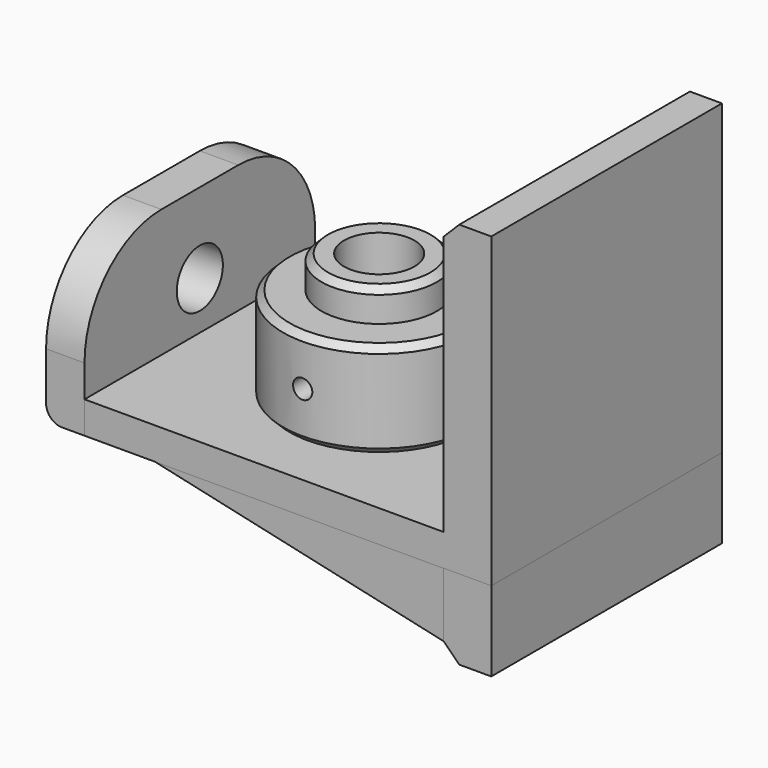
from build123d import *

# Parameters (mm, degrees)
F0_R      = 30
F1_DEPTH  = 30
F2_R      = 18
F3_DEPTH  = 10
F4_SIZE   = 2
F5_R      = 11
F6_DEPTH  = 40
F8_R      = 3
F9_DEPTH  = 12
F11_R     = 3
F12_DEPTH = 12
F15_R     = 3
F16_DEPTH = 12
F17_R     = 3
F18_DEPTH = 12
F20_W     = 90
F20_H     = 50
F21_DEPTH = 12
F22_R     = 9
F23_DEPTH = 12
F25_W     = 112
F25_H     = 90
F26_DEPTH = 10
F27_R     = 25
F28_DEPTH = 2
F29_R     = 11
F30_DEPTH = 8
F31_R     = 30
F32_R     = 30
F35_W     = 15
F35_H     = 90
F36_DEPTH = 25
F34_W     = 90
F34_H     = 96
F37_DEPTH = 15
F38_SIZE  = 5
F39_SIZE  = 5
F40_R     = 5
F44_DEPTH = 15
F46_DEPTH = 15


with BuildPart() as f1:
    # F0 (on Top) → F1 (new body)
    with BuildSketch(Plane.XY):
        Circle(F0_R)
    extrude(amount=F1_DEPTH)

    # F2 (on face) → F3 (join)
    with BuildSketch(Plane.XY.offset(30)):
        Circle(F2_R)
    extrude(amount=F3_DEPTH)

    # F4
    f4_edges = [f1.edges().sort_by_distance(p)[0] for p in [
        (-18, 0, 40),
        (-30, 0, 30),
        (-30, 0, 0),
    ]]
    chamfer(f4_edges, length=F4_SIZE)

    # F5 (on face) → F6 (cut)
    with BuildSketch(Plane.XY.offset(40)):
        Circle(F5_R)
    extrude(amount=-F6_DEPTH, mode=Mode.SUBTRACT)

    # F8 (on offset) → F9 (cut)
    with BuildSketch(Plane.YZ.offset(30)):
        with Locations((0, 15)):
            Circle(F8_R)
    extrude(amount=-F9_DEPTH, mode=Mode.SUBTRACT)

    # F11 (on offset) → F12 (cut)
    with BuildSketch(Plane.YZ.offset(-30)):
        with Locations((0, 15)):
            Circle(F11_R)
    extrude(amount=F12_DEPTH, mode=Mode.SUBTRACT)

    # F15 (on offset) → F16 (cut)
    with BuildSketch(Plane.XZ.offset(30)):
        with Locations((0, 15)):
            Circle(F15_R)
    extrude(amount=-F16_DEPTH, mode=Mode.SUBTRACT)

    # F17 (on offset) → F18 (cut)
    with BuildSketch(Plane.XZ.offset(-30)):
        with Locations((0, 15)):
            Circle(F17_R)
    extrude(amount=F18_DEPTH, mode=Mode.SUBTRACT)


with BuildPart() as f21:
    # F20 (on offset) → F21 (new body)
    with BuildSketch(Plane.YZ.offset(-56)):
        with Locations((0, 15)):
            Rectangle(F20_W, F20_H)
    extrude(amount=-F21_DEPTH)

    # F22 (on face) → F23 (cut)
    with BuildSketch(Plane(origin=(-68, 0, 0), x_dir=(0, -1, 0), z_dir=(-1, 0, 0))):
        with Locations((0, 15)):
            Circle(F22_R)
    extrude(amount=-F23_DEPTH, mode=Mode.SUBTRACT)

    # F31
    f31_edges = [f21.edges().sort_by_distance(p)[0] for p in [
        (-62, 45, 40),
    ]]
    fillet(f31_edges, radius=F31_R)

    # F32
    f32_edges = [f21.edges().sort_by_distance(p)[0] for p in [
        (-62, -45, 40),
    ]]
    fillet(f32_edges, radius=F32_R)

    # F40
    f40_edges = [f21.edges().sort_by_distance(p)[0] for p in [
        (-68, 0, -10),
    ]]
    fillet(f40_edges, radius=F40_R)


with BuildPart() as f26:
    # F25 (on offset) → F26 (new body)
    with BuildSketch(Plane.XY.offset(-10)):
        Rectangle(F25_W, F25_H)
    extrude(amount=F26_DEPTH)

    # F27 (on face) → F28 (cut)
    with BuildSketch(Plane(origin=(0, 0, -10), x_dir=(1, 0, 0), z_dir=(0, 0, -1))):
        Circle(F27_R)
    extrude(amount=-F28_DEPTH, mode=Mode.SUBTRACT)

    # F29 (on face) → F30 (cut)
    with BuildSketch(Plane(origin=(0, 0, -8), x_dir=(1, 0, 0), z_dir=(0, 0, -1))):
        Circle(F29_R)
    extrude(amount=-F30_DEPTH, mode=Mode.SUBTRACT)

    # F35 (on offset) → F36 (join)
    with BuildSketch(Plane.XY.offset(-10)):
        with Locations((63.33898, 0.187946)):
            Rectangle(F35_W, F35_H)
    extrude(amount=-F36_DEPTH)

    # F34 (on offset) → F37 (join)
    with BuildSketch(Plane.YZ.offset(56)):
        with Locations((0, 38.062497)):
            Rectangle(F34_W, F34_H)
    extrude(amount=F37_DEPTH)

    # F38
    f38_edges = [f26.edges().sort_by_distance(p)[0] for p in [
        (56, 0, 86.062497),
    ]]
    chamfer(f38_edges, length=F38_SIZE)

    # F39
    f39_edges = [f26.edges().sort_by_distance(p)[0] for p in [
        (55.83898, 0.187946, -35),
    ]]
    chamfer(f39_edges, length=F39_SIZE)

    # F43 (on offset) → F44 (join)
    with BuildSketch(Plane.XZ.offset(-45)):
        Polygon((55.83898, -30), (55.83898, -10), (-34.16102, -10), align=None)
    extrude(amount=F44_DEPTH)


with BuildPart() as f46:
    # F45 (on offset) → F46 (new body)
    with BuildSketch(Plane.XZ.offset(45)):
        Polygon((56, -30), (56, -10), (-34, -10), align=None)
    extrude(amount=-F46_DEPTH)


solid = Compound([f1.part, f21.part, f26.part, f46.part])
